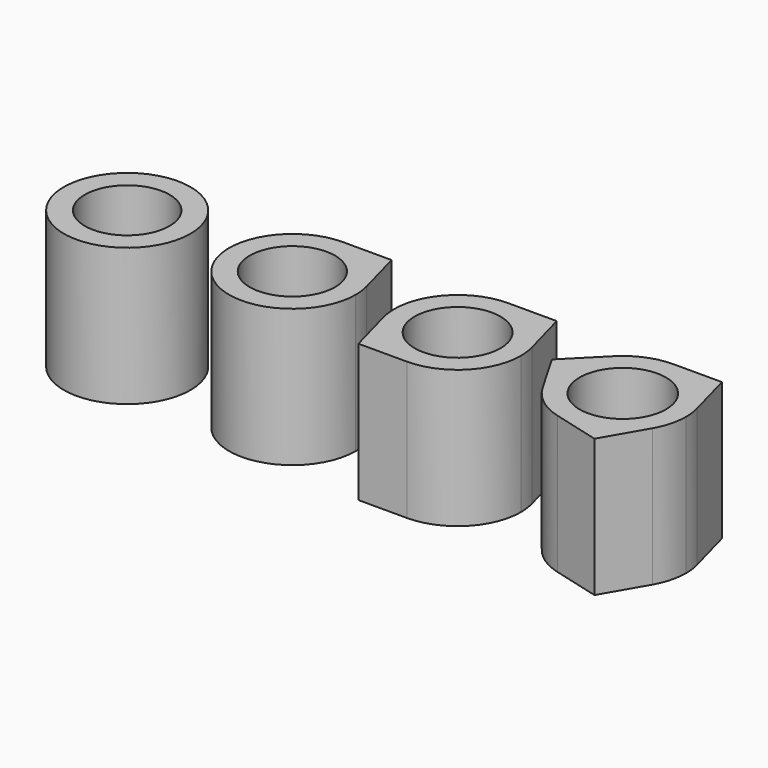
from build123d import *

# Parameters (mm, degrees)
F0_R     = 7.75
F0_R_2   = 7.8
F0_R_3   = 7.85
F0_R_4   = 11.5
F0_R_5   = 7.7
F1_DEPTH = 25


with BuildPart() as f1:
    # F0 (on Top) → F1 (new body)
    with BuildSketch(Plane.XY):
        with BuildLine():
            ThreePointArc((-30, 11.5), (-38.131728, -8.131728), (-18.5, 0))
            ThreePointArc((-18.5, 0), (-18.599984, 1.513156), (-18.898198, 3))
            ThreePointArc((-18.898198, 3), (-23.008934, 9.130991), (-30, 11.5))
        make_face()
        with Locations((-30, 0)):
            Circle(F0_R, mode=Mode.SUBTRACT)
        with BuildLine():
            ThreePointArc((-30, 11.5), (-23.008934, 9.130991), (-18.898198, 3))
            Line((-18.898198, 3), (-21.195123, 11.5))
            Line((-21.195123, 11.5), (-30, 11.5))
        make_face()
        with BuildLine():
            ThreePointArc((0, -11.5), (8.131728, -8.131728), (11.5, 0))
            ThreePointArc((11.5, 0), (11.400016, 1.513156), (11.101802, 3))
            ThreePointArc((11.101802, 3), (6.991066, 9.130991), (0, 11.5))
            ThreePointArc((0, 11.5), (-9.130991, 6.991066), (-11.101802, -3))
            ThreePointArc((-11.101802, -3), (-6.991066, -9.130991), (0, -11.5))
        make_face()
        Circle(F0_R_2, mode=Mode.SUBTRACT)
        with BuildLine():
            ThreePointArc((0, 11.5), (6.991066, 9.130991), (11.101802, 3))
            Line((11.101802, 3), (8.804877, 11.5))
            Line((8.804877, 11.5), (0, 11.5))
        make_face()
        with BuildLine():
            Line((-8.804877, -11.5), (0, -11.5))
            ThreePointArc((0, -11.5), (-6.991066, -9.130991), (-11.101802, -3))
            Line((-11.101802, -3), (-8.804877, -11.5))
        make_face()
        with BuildLine():
            ThreePointArc((39.959292, -5.75), (41.108147, -2.976419), (41.5, 0))
            ThreePointArc((41.5, 0), (41.400016, 1.513156), (41.101802, 3))
            ThreePointArc((41.101802, 3), (36.991066, 9.130991), (30, 11.5))
            ThreePointArc((30, 11.5), (25.587863, 10.619936), (21.851023, 8.114442))
            ThreePointArc((21.851023, 8.114442), (18.596797, 1.488945), (20.040708, -5.75))
            ThreePointArc((20.040708, -5.75), (23.008934, -9.130991), (27.047175, -11.114442))
            ThreePointArc((27.047175, -11.114442), (34.412137, -10.619936), (39.959292, -5.75))
        make_face()
        with Locations((30, 0)):
            Circle(F0_R_3, mode=Mode.SUBTRACT)
        with BuildLine():
            ThreePointArc((30, 11.5), (36.991066, 9.130991), (41.101802, 3))
            Line((41.101802, 3), (38.804877, 11.5))
            Line((38.804877, 11.5), (30, 11.5))
        make_face()
        with BuildLine():
            Line((35.556854, -13.375247), (39.959292, -5.75))
            ThreePointArc((39.959292, -5.75), (34.412137, -10.619936), (27.047175, -11.114442))
            Line((27.047175, -11.114442), (35.556854, -13.375247))
        make_face()
        with BuildLine():
            ThreePointArc((20.040708, -5.75), (18.596797, 1.488945), (21.851023, 8.114442))
            Line((21.851023, 8.114442), (15.638269, 1.875247))
            Line((15.638269, 1.875247), (20.040708, -5.75))
        make_face()
        with Locations((-60, 0)):
            Circle(F0_R_4)
        with Locations((-60, 0)):
            Circle(F0_R_5, mode=Mode.SUBTRACT)
    extrude(amount=F1_DEPTH)


solid = f1.part
